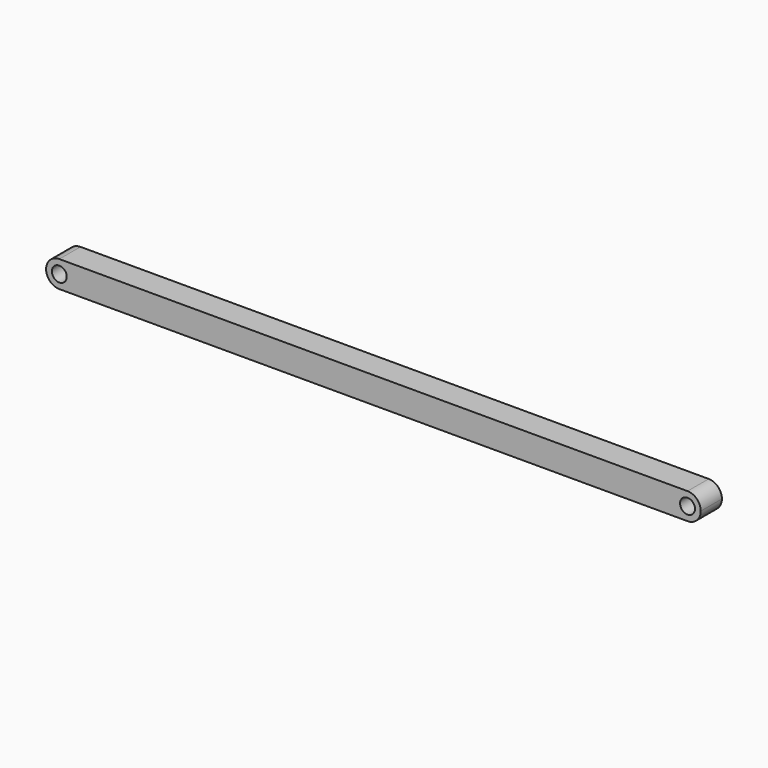
from build123d import *

# Parameters (mm, degrees)
F0_R     = 7.1501
F1_DEPTH = 25.4


with BuildPart() as f1:
    # F0 (on Front) → F1 (new body)
    with BuildSketch(Plane.XZ):
        with BuildLine():
            ThreePointArc((0, 12.7), (8.980256, 8.980256), (12.7, 0))
            ThreePointArc((12.7, 0), (9.065901, -8.893787), (0.243394, -12.697667))
            Line((0.243394, -12.697667), (603.006606, -12.697667))
            ThreePointArc((603.006606, -12.697667), (590.550583, 0.121703), (603.25, 12.7))
            Line((603.25, 12.7), (0, 12.7))
        make_face()
        with BuildLine():
            ThreePointArc((0.243394, -12.697667), (9.065901, -8.893787), (12.7, 0))
            ThreePointArc((12.7, 0), (8.980256, 8.980256), (0, 12.7))
            ThreePointArc((0, 12.7), (-12.699417, -0.121703), (0.243394, -12.697667))
        make_face()
        Circle(F0_R, mode=Mode.SUBTRACT)
        with BuildLine():
            ThreePointArc((615.95, 0), (612.230256, 8.980256), (603.25, 12.7))
            ThreePointArc((603.25, 12.7), (590.550583, 0.121703), (603.006606, -12.697667))
            Line((603.006606, -12.697667), (603.493394, -12.697667))
            ThreePointArc((603.493394, -12.697667), (612.315901, -8.893787), (615.95, 0))
        make_face()
        with Locations((603.25, 0)):
            Circle(F0_R, mode=Mode.SUBTRACT)
    extrude(amount=F1_DEPTH)


solid = f1.part
